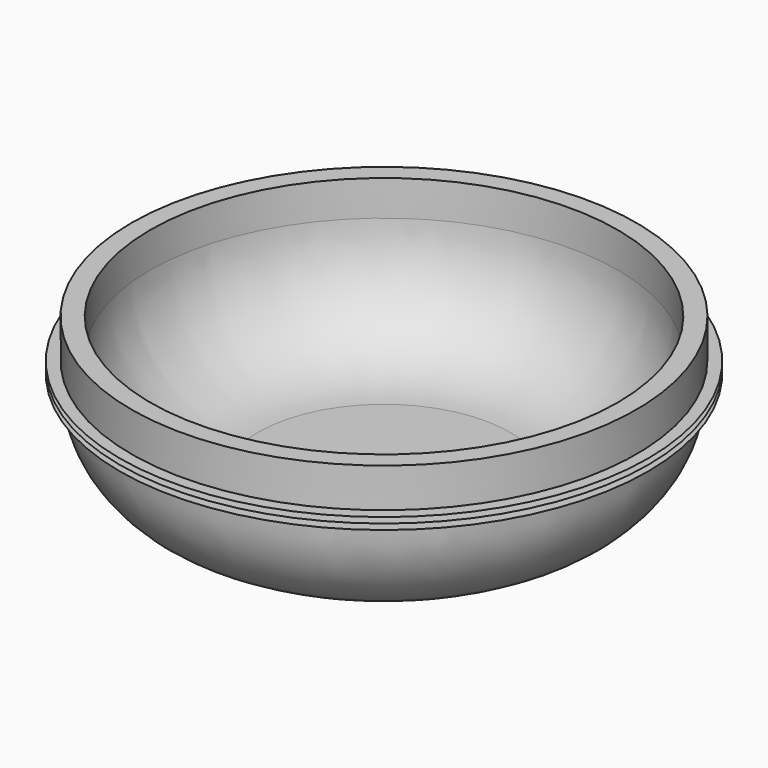
from build123d import *


with BuildPart() as f1:
    # F0 (on Front) → F1 (revolve)
    with BuildSketch(Plane.XZ):
        with BuildLine():
            Line((-26.804441, 0), (0, 0))
            Line((0, 0), (0, 3.5))
            Line((0, 3.5), (-23.311267, 3.5))
            ThreePointArc((-23.311267, 3.5), (-37.439592, 9.344067), (-43.311229, 23.460957))
            Line((-43.311229, 23.460957), (-43.323994, 30))
            Line((-43.323994, 30), (-46.824001, 30))
            Line((-46.824001, 30), (-46.809776, 22.713209))
            Line((-46.809776, 22.713209), (-46.807706, 21.653051))
            Line((-46.807706, 21.653051), (-46.805643, 20.596067))
            Line((-46.805643, 20.596067), (-46.804403, 19.960957))
            ThreePointArc((-46.804403, 19.960957), (-46.802858, 19.748387), (-46.799054, 19.535845))
            ThreePointArc((-46.799054, 19.535845), (-40.78151, 5.694702), (-26.804441, 0))
        make_face()
        Polygon((-48.95586, 22.709019), (-46.807706, 21.653051), (-46.809776, 22.713209), align=None)
        Polygon((-48.95586, 21.653051), (-46.805643, 20.596067), (-46.807706, 21.653051), align=None)
        with BuildLine():
            Line((-48.95586, 20.596067), (-46.799054, 19.535845))
            ThreePointArc((-46.799054, 19.535845), (-46.802858, 19.748387), (-46.804403, 19.960957))
            Line((-46.804403, 19.960957), (-46.805643, 20.596067))
            Line((-46.805643, 20.596067), (-48.95586, 20.596067))
        make_face()
    revolve(axis=Axis((0, 0, 15), (0, 0, 1)))


solid = f1.part
